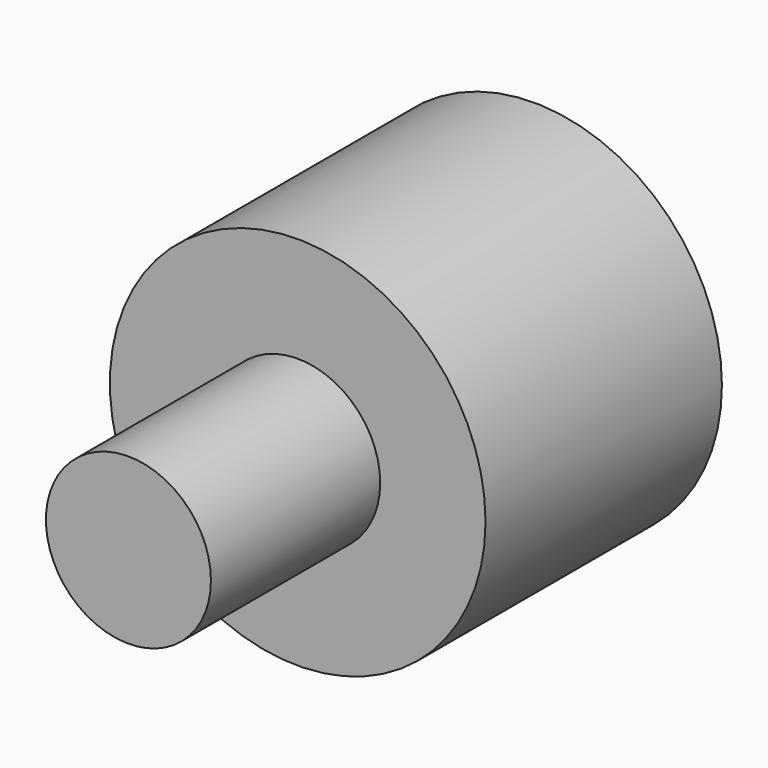
from build123d import *


with BuildPart() as f1:
    # F0 (on Top) → F1 (revolve)
    with BuildSketch(Plane.XY):
        with BuildLine():
            Line((36.774334, 46.720743), (20.326146, 46.720743))
            ThreePointArc((20.326146, 46.720743), (16.80073, 65.141406), (0, 73.477162))
            Line((0, 73.477162), (0, 46.720743))
            Line((0, 46.720743), (0, -11.132676))
            Line((0, -11.132676), (0, -52.560836))
            Line((0, -52.560836), (16.151506, -52.560836))
            Line((16.151506, -52.560836), (16.151506, -11.132676))
            Line((16.151506, -11.132676), (36.774334, -11.132676))
            Line((36.774334, -11.132676), (36.774334, 46.720743))
        make_face()
    revolve(axis=Axis((0, 10.458163, 0), (0, -1, 0)))


solid = f1.part
